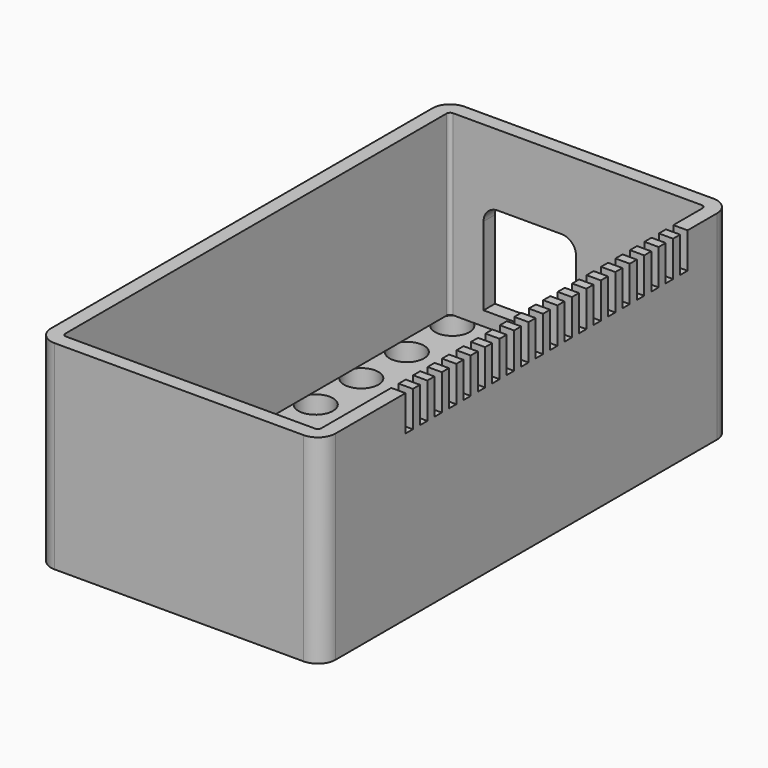
from build123d import *

# Parameters (mm, degrees)
F1_R      = 0.5
F2_DEPTH  = 3
F3_R      = 2.425
F4_DEPTH  = 3
F5_R      = 2.5
F5_R_2    = 0.5
F6_DEPTH  = 2
F8_DEPTH  = 25
F10_DEPTH = 2
F11_W     = 1.3
F11_H     = 5
F12_DEPTH = 2


with BuildPart() as f2:
    # F1 (on Top) → F2 (new body)
    with BuildSketch(Plane.XY):
        with BuildLine():
            Line((17.9973, 37.4097), (-17.0027, 37.4097))
            ThreePointArc((-17.0027, 37.4097), (-18.770467, 36.677467), (-19.5027, 34.9097))
            Line((-19.5027, 34.9097), (-19.5027, -32.0903))
            ThreePointArc((-19.5027, -32.0903), (-18.770467, -33.858067), (-17.0027, -34.5903))
            Line((-17.0027, -34.5903), (17.9973, -34.5903))
            ThreePointArc((17.9973, -34.5903), (19.765067, -33.858067), (20.4973, -32.0903))
            Line((20.4973, -32.0903), (20.4973, 34.9097))
            ThreePointArc((20.4973, 34.9097), (19.765067, 36.677467), (17.9973, 37.4097))
        make_face()
        with Locations((-10.1727, -10.5283)):
            Circle(F1_R, mode=Mode.SUBTRACT)
        with Locations((2.5273, 27.5717)):
            Circle(F1_R, mode=Mode.SUBTRACT)
    extrude(amount=F2_DEPTH)

    # F3 (on face) → F4 (cut)
    with BuildSketch(Plane(origin=(0, 0, 0), x_dir=(1, 0, 0), z_dir=(0, 0, -1))):
        with Locations((-15.5027, 30.5903)):
            Circle(F3_R)
        with Locations((-15.5027, 22.5903)):
            Circle(F3_R)
        with Locations((-7.5027, 30.5903)):
            Circle(F3_R)
        with Locations((-7.5027, 22.5903)):
            Circle(F3_R)
        with Locations((0.4973, 30.5903)):
            Circle(F3_R)
        with Locations((0.4973, 22.5903)):
            Circle(F3_R)
        with Locations((8.4973, 30.5903)):
            Circle(F3_R)
        with Locations((8.4973, 22.5903)):
            Circle(F3_R)
        with Locations((16.4973, 30.5903)):
            Circle(F3_R)
        with Locations((16.4973, 22.5903)):
            Circle(F3_R)
        with Locations((-15.5027, 14.5903)):
            Circle(F3_R)
        with Locations((-15.5027, 6.5903)):
            Circle(F3_R)
        with Locations((-15.5027, -1.4097)):
            Circle(F3_R)
        with Locations((-15.5027, -9.4097)):
            Circle(F3_R)
        with Locations((-15.5027, -17.4097)):
            Circle(F3_R)
        with Locations((-15.5027, -25.4097)):
            Circle(F3_R)
        with Locations((-15.5027, -33.4097)):
            Circle(F3_R)
        with Locations((-7.5027, 14.5903)):
            Circle(F3_R)
        with Locations((-7.5027, 6.5903)):
            Circle(F3_R)
        with Locations((-7.5027, -1.4097)):
            Circle(F3_R)
        with Locations((-7.5027, -9.4097)):
            Circle(F3_R)
        with Locations((-7.5027, -17.4097)):
            Circle(F3_R)
        with Locations((-7.5027, -25.4097)):
            Circle(F3_R)
        with Locations((-7.5027, -33.4097)):
            Circle(F3_R)
        with Locations((0.4973, 14.5903)):
            Circle(F3_R)
        with Locations((0.4973, 6.5903)):
            Circle(F3_R)
        with Locations((0.4973, -1.4097)):
            Circle(F3_R)
        with Locations((0.4973, -9.4097)):
            Circle(F3_R)
        with Locations((0.4973, -17.4097)):
            Circle(F3_R)
        with Locations((0.4973, -25.4097)):
            Circle(F3_R)
        with Locations((0.4973, -33.4097)):
            Circle(F3_R)
        with Locations((8.4973, 14.5903)):
            Circle(F3_R)
        with Locations((8.4973, 6.5903)):
            Circle(F3_R)
        with Locations((8.4973, -1.4097)):
            Circle(F3_R)
        with Locations((8.4973, -9.4097)):
            Circle(F3_R)
        with Locations((8.4973, -17.4097)):
            Circle(F3_R)
        with Locations((8.4973, -25.4097)):
            Circle(F3_R)
        with Locations((8.4973, -33.4097)):
            Circle(F3_R)
        with Locations((16.4973, 14.5903)):
            Circle(F3_R)
        with Locations((16.4973, 6.5903)):
            Circle(F3_R)
        with Locations((16.4973, -1.4097)):
            Circle(F3_R)
        with Locations((16.4973, -9.4097)):
            Circle(F3_R)
        with Locations((16.4973, -17.4097)):
            Circle(F3_R)
        with Locations((16.4973, -25.4097)):
            Circle(F3_R)
        with Locations((16.4973, -33.4097)):
            Circle(F3_R)
    extrude(amount=-F4_DEPTH, mode=Mode.SUBTRACT)

    # F5 (on face) → F6 (join)
    with BuildSketch(Plane.XY.offset(3)):
        with Locations((-10.1727, -10.5283)):
            Circle(F5_R)
        with Locations((-10.1727, -10.5283)):
            Circle(F5_R_2, mode=Mode.SUBTRACT)
        with Locations((2.5273, 27.5717)):
            Circle(F5_R)
        with Locations((2.5273, 27.5717)):
            Circle(F5_R_2, mode=Mode.SUBTRACT)
    extrude(amount=F6_DEPTH)

    # F7 (on face) → F8 (join)
    with BuildSketch(Plane.XY.offset(3)):
        with BuildLine():
            ThreePointArc((-19.5027, -32.0903), (-18.770467, -33.858067), (-17.0027, -34.5903))
            Line((-17.0027, -34.5903), (17.9973, -34.5903))
            ThreePointArc((17.9973, -34.5903), (19.765067, -33.858067), (20.4973, -32.0903))
            Line((20.4973, -32.0903), (20.4973, 34.9097))
            ThreePointArc((20.4973, 34.9097), (19.765067, 36.677467), (17.9973, 37.4097))
            Line((17.9973, 37.4097), (-17.0027, 37.4097))
            ThreePointArc((-17.0027, 37.4097), (-18.770467, 36.677467), (-19.5027, 34.9097))
            Line((-19.5027, 34.9097), (-19.5027, -32.0903))
        make_face()
        with BuildLine():
            ThreePointArc((-17.0027, -32.5903), (-17.356253, -32.443853), (-17.5027, -32.0903))
            Line((-17.5027, -32.0903), (-17.5027, 34.9097))
            ThreePointArc((-17.5027, 34.9097), (-17.356253, 35.263253), (-17.0027, 35.4097))
            Line((-17.0027, 35.4097), (17.9973, 35.4097))
            ThreePointArc((17.9973, 35.4097), (18.350853, 35.263253), (18.4973, 34.9097))
            Line((18.4973, 34.9097), (18.4973, -32.0903))
            ThreePointArc((18.4973, -32.0903), (18.350853, -32.443853), (17.9973, -32.5903))
            Line((17.9973, -32.5903), (-17.0027, -32.5903))
        make_face(mode=Mode.SUBTRACT)
    extrude(amount=F8_DEPTH)

    # F9 (on face) → F10 (cut, through all)
    with BuildSketch(Plane(origin=(0, 37.4097, 0), x_dir=(-1, 0, 0), z_dir=(0, 1, 0))):
        with BuildLine():
            Line((-0.2873, 5), (12.7127, 5))
            Line((12.7127, 5), (12.7127, 16))
            ThreePointArc((12.7127, 16), (12.126914, 17.414214), (10.7127, 18))
            Line((10.7127, 18), (1.7127, 18))
            ThreePointArc((1.7127, 18), (0.298486, 17.414214), (-0.2873, 16))
            Line((-0.2873, 16), (-0.2873, 5))
        make_face()
    extrude(amount=-F10_DEPTH, mode=Mode.SUBTRACT)

    # F11 (on face) → F12 (cut, through all)
    with BuildSketch(Plane.YZ.offset(20.4973)):
        with Locations((29.0957, 25.5)):
            Rectangle(F11_W, F11_H)
        with Locations((26.5557, 25.5)):
            Rectangle(F11_W, F11_H)
        with Locations((24.0157, 25.5)):
            Rectangle(F11_W, F11_H)
        with Locations((21.4757, 25.5)):
            Rectangle(F11_W, F11_H)
        with Locations((18.9357, 25.5)):
            Rectangle(F11_W, F11_H)
        with Locations((16.3957, 25.5)):
            Rectangle(F11_W, F11_H)
        with Locations((13.8557, 25.5)):
            Rectangle(F11_W, F11_H)
        with Locations((11.3157, 25.5)):
            Rectangle(F11_W, F11_H)
        with Locations((8.7757, 25.5)):
            Rectangle(F11_W, F11_H)
        with Locations((6.2357, 25.5)):
            Rectangle(F11_W, F11_H)
        with Locations((3.6957, 25.5)):
            Rectangle(F11_W, F11_H)
        with Locations((1.1557, 25.5)):
            Rectangle(F11_W, F11_H)
        with Locations((-1.3843, 25.5)):
            Rectangle(F11_W, F11_H)
        with Locations((-3.9243, 25.5)):
            Rectangle(F11_W, F11_H)
        with Locations((-6.4643, 25.5)):
            Rectangle(F11_W, F11_H)
        with Locations((-9.0043, 25.5)):
            Rectangle(F11_W, F11_H)
        with Locations((-11.5443, 25.5)):
            Rectangle(F11_W, F11_H)
        with Locations((-14.0843, 25.5)):
            Rectangle(F11_W, F11_H)
        with Locations((-16.6243, 25.5)):
            Rectangle(F11_W, F11_H)
        with Locations((-19.1643, 25.5)):
            Rectangle(F11_W, F11_H)
    extrude(amount=-F12_DEPTH, mode=Mode.SUBTRACT)


solid = f2.part
